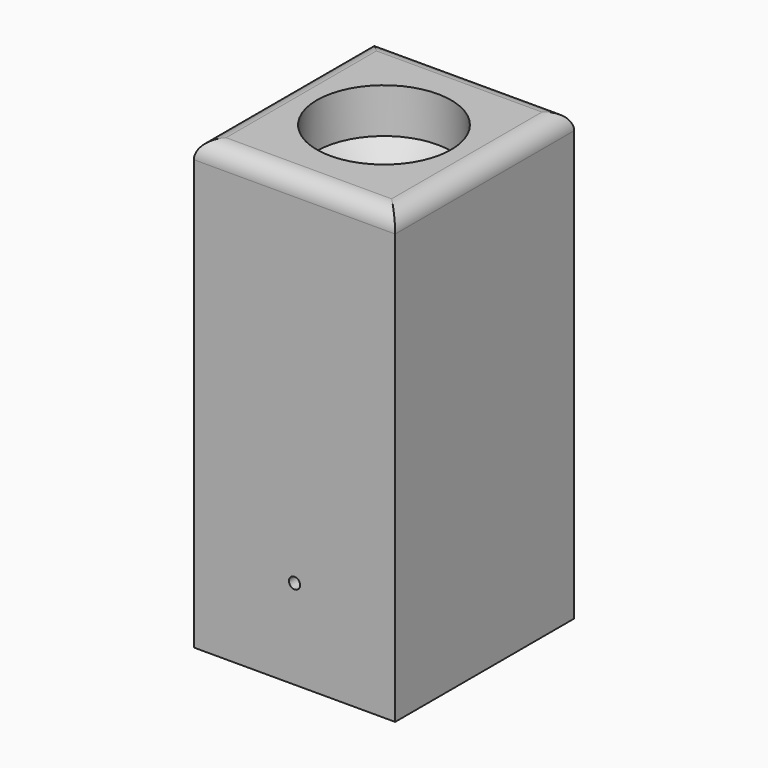
from build123d import *

# Parameters (mm, degrees)
F0_W     = 57.15
F0_H     = 63.5
F1_DEPTH = 127
F3_D     = 38.1
F3_DEPTH = 12.7
F3_TIP   = 11.4463947925
F4_R     = 5.08
F6_D     = 3.175


with BuildPart() as f1:
    # F0 (on Top) → F1 (new body)
    with BuildSketch(Plane.XY):
        with Locations((28.575, -31.75)):
            Rectangle(F0_W, F0_H)
    extrude(amount=F1_DEPTH)

    # F3
    with Locations(Plane.XY.offset(127)):
        with Locations((28.575, -31.75)):
            Hole(F3_D / 2, depth=F3_DEPTH)
            with Locations((0, 0, -(F3_DEPTH + F3_TIP / 2))):  # 118° drill point
                Cone(0, F3_D / 2, F3_TIP, mode=Mode.SUBTRACT)

    # F4
    f4_edges = [f1.edges().sort_by_distance(p)[0] for p in [
        (57.15, -31.75, 127),
        (28.575, 0, 127),
        (0, -31.75, 127),
        (28.575, -63.5, 127),
    ]]
    fillet(f4_edges, radius=F4_R)

    # F6 (through all)
    with Locations(Plane(origin=(0, 0, 0), x_dir=(-1, 0, 0), z_dir=(0, 1, 0))):
        with Locations((-28.575, 25.4)):
            Hole(F6_D / 2)


solid = f1.part
